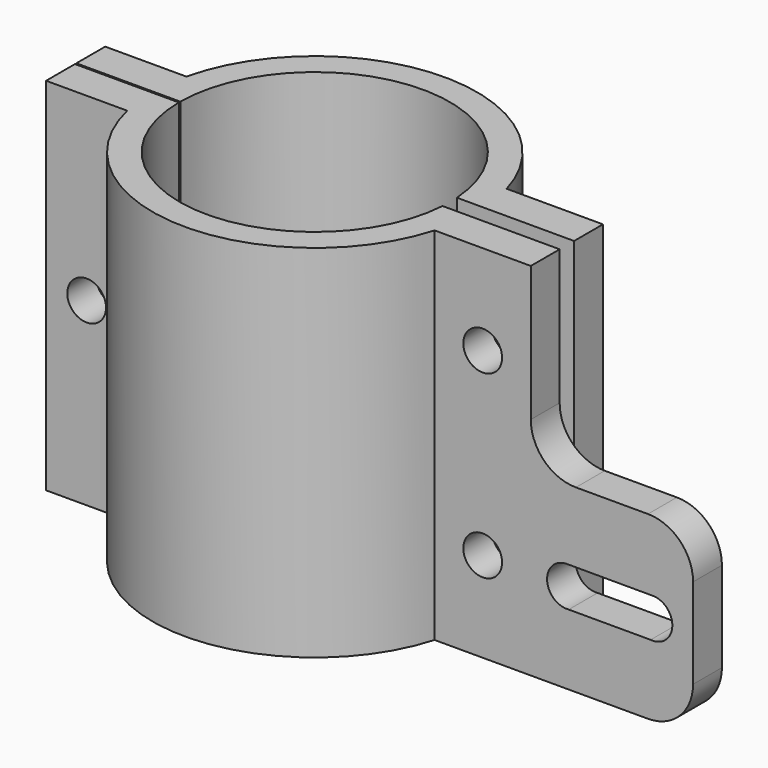
from build123d import *

# Parameters (mm, degrees)
F1_DEPTH  = 20
F2_R      = 2.15
F3_DEPTH  = 25
F4_R      = 2.15
F5_DEPTH  = 2
F6_R      = 2.15
F7_DEPTH  = 25
F8_R      = 2.15
F9_DEPTH  = 2
F10_W     = 4
F10_H     = 20
F11_DEPTH = 18
F12_R     = 5
F14_DEPTH = 25
F17_R     = 5


with BuildPart() as f1:
    # F0 (on Top) → F1 (new body, symmetric)
    with BuildSketch(Plane.XY):
        with BuildLine():
            ThreePointArc((-14.999666663, 0.1), (-0.4503030788, 14.993239381), (14.9666295471, 1))
            Line((14.9666295471, 1), (17.9722007556, 1))
            ThreePointArc((17.9722007556, 1), (17.7449767894, 3.0192381065), (17.2916164658, 5))
            ThreePointArc((17.2916164658, 5), (-0.4651151727, 17.9939897709), (-17.5268365657, 4.1))
            ThreePointArc((-17.5268365657, 4.1), (-17.87551663, 2.1132688448), (-17.9997222201, 0.1))
            Line((-17.9997222201, 0.1), (-14.999666663, 0.1))
        make_face()
        with BuildLine():
            Line((-26.5268365657, 0.1), (-17.9997222201, 0.1))
            ThreePointArc((-17.9997222201, 0.1), (-17.87551663, 2.1132688448), (-17.5268365657, 4.1))
            Line((-17.5268365657, 4.1), (-26.5268365657, 4.1))
            Line((-26.5268365657, 4.1), (-26.5268365657, 0.1))
        make_face()
        with BuildLine():
            ThreePointArc((17.2916164658, 5), (17.7449767894, 3.0192381065), (17.9722007556, 1))
            Line((17.9722007556, 1), (27.9666295471, 1))
            Line((27.9666295471, 1), (27.9666295471, 5))
            Line((27.9666295471, 5), (17.2916164658, 5))
        make_face()
    extrude(amount=F1_DEPTH, both=True)


with BuildPart() as f1b:
    # F0 (on Top) → F1, piece 2 (new body, symmetric)
    with BuildSketch(Plane.XY):
        with BuildLine():
            ThreePointArc((-17.5268365657, -4.1), (-17.87551663, -2.1132688448), (-17.9997222201, -0.1))
            Line((-17.9997222201, -0.1), (-26.5268365657, -0.1))
            Line((-26.5268365657, -0.1), (-26.5268365657, -4.1))
            Line((-26.5268365657, -4.1), (-17.5268365657, -4.1))
        make_face()
        with BuildLine():
            Line((17.9722007556, -1), (14.9666295471, -1))
            ThreePointArc((14.9666295471, -1), (-0.4503030788, -14.993239381), (-14.999666663, -0.1))
            Line((-14.999666663, -0.1), (-17.9997222201, -0.1))
            ThreePointArc((-17.9997222201, -0.1), (-17.87551663, -2.1132688448), (-17.5268365657, -4.1))
            ThreePointArc((-17.5268365657, -4.1), (-0.4651151727, -17.9939897709), (17.2916164658, -5))
            ThreePointArc((17.2916164658, -5), (17.7449767894, -3.0192381065), (17.9722007556, -1))
        make_face()
        with BuildLine():
            Line((27.9666295471, -1), (17.9722007556, -1))
            ThreePointArc((17.9722007556, -1), (17.7449767894, -3.0192381065), (17.2916164658, -5))
            Line((17.2916164658, -5), (27.9666295471, -5))
            Line((27.9666295471, -5), (27.9666295471, -1))
        make_face()
    extrude(amount=F1_DEPTH, both=True)


with BuildPart() as f3_tool:
    # F2 (on face) → F3 (new body)
    with BuildSketch(Plane.XZ.offset(4.1)):
        with Locations((-22.0268365657, 0)):
            Circle(F2_R)
    extrude(amount=-F3_DEPTH)


with BuildPart() as f1_1:
    add(f1.part)

    # F3: cut by f3_tool
    add(f3_tool.part, mode=Mode.SUBTRACT)

    # F4 (on face) → F5 (cut)
    with BuildSketch(Plane(origin=(0, 4.1, 0), x_dir=(-1, 0, 0), z_dir=(0, 1, 0))):
        Polygon((24.1630325617, 3.7), (19.8906405697, 3.7), (17.7544445737, 0), (19.8906405697, -3.7), (24.1630325617, -3.7), (26.2992285577, 0), align=None)
        with Locations((22.0268365657, 0)):
            Circle(F4_R, mode=Mode.SUBTRACT)
    extrude(amount=-F5_DEPTH, mode=Mode.SUBTRACT)


with BuildPart() as f1b_1:
    add(f1b.part)

    # F3: cut by f3_tool
    add(f3_tool.part, mode=Mode.SUBTRACT)


with BuildPart() as f7_tool:
    # F6 (on face) → F7 (new body)
    with BuildSketch(Plane.XZ.offset(5)):
        with Locations((22.6291230064, 10)):
            Circle(F6_R)
        with Locations((22.6291230064, -10)):
            Circle(F6_R)
    extrude(amount=-F7_DEPTH)


with BuildPart() as f1_2:
    add(f1_1.part)

    # F7: cut by f7_tool
    add(f7_tool.part, mode=Mode.SUBTRACT)

    # F8 (on face) → F9 (cut)
    with BuildSketch(Plane(origin=(0, 5, 0), x_dir=(-1, 0, 0), z_dir=(0, 1, 0))):
        Polygon((-20.4929270104, 13.7), (-24.7653190024, 13.7), (-26.9015149984, 10), (-24.7653190024, 6.3), (-20.4929270104, 6.3), (-18.3567310144, 10), align=None)
        with Locations((-22.6291230064, 10)):
            Circle(F8_R, mode=Mode.SUBTRACT)
        Polygon((-20.4858813267, -6.3040767817), (-24.758265564, -6.2959366497), (-26.9015072438, -9.991859868), (-24.7723646862, -13.6959232183), (-20.4999804488, -13.7040633503), (-18.3567387691, -10.008140132), align=None)
        with Locations((-22.6291230064, -10)):
            Circle(F8_R, mode=Mode.SUBTRACT)
    extrude(amount=-F9_DEPTH, mode=Mode.SUBTRACT)


with BuildPart() as f1b_2:
    add(f1b_1.part)

    # F7: cut by f7_tool
    add(f7_tool.part, mode=Mode.SUBTRACT)

    # F10 (on face) → F11 (join)
    with BuildSketch(Plane.YZ.offset(27.9666295471)):
        with Locations((-3, 10)):
            Rectangle(F10_W, F10_H)
    extrude(amount=F11_DEPTH)

    # F12
    f12_edges = [f1b_2.edges().sort_by_distance(p)[0] for p in [
        (45.96663, -3, 20),
        (45.96663, -3, 0),
    ]]
    fillet(f12_edges, radius=F12_R)

    # F13 (on face) → F14 (cut)
    with BuildSketch(Plane.XZ.offset(5)):
        with BuildLine():
            ThreePointArc((31.9693457589, 7.8000016768), (33.5232244954, 8.4453257039), (34.1666295471, 10))
            ThreePointArc((34.1666295471, 10), (33.5934159099, 11.4810692522), (32.1724785199, 12.1903484199))
            ThreePointArc((32.1724785199, 12.1903484199), (29.7689805783, 10.1016809216), (31.9693457589, 7.8000016768))
        make_face()
        with BuildLine():
            ThreePointArc((43.6666295471, 10), (42.9476987993, 11.6267863628), (41.2607805742, 12.1903484199))
            ThreePointArc((41.2607805742, 12.1903484199), (39.2666488008, 10.0092041272), (41.2424604448, 7.81145066))
            Line((41.2424604448, 7.81145066), (41.6962021106, 7.8120108688))
            ThreePointArc((41.6962021106, 7.8120108688), (43.1014169399, 8.5277669409), (43.6666295471, 10))
        make_face()
        with BuildLine():
            ThreePointArc((32.1724785199, 12.1903484199), (33.5934159099, 11.4810692522), (34.1666295471, 10))
            ThreePointArc((34.1666295471, 10), (33.5232244954, 8.4453257039), (31.9693457589, 7.8000016768))
            Line((31.9693457589, 7.8000016768), (41.2424604448, 7.81145066))
            ThreePointArc((41.2424604448, 7.81145066), (39.2666488008, 10.0092041272), (41.2607805742, 12.1903484199))
            Line((41.2607805742, 12.1903484199), (32.1724785199, 12.1903484199))
        make_face()
    extrude(amount=-F14_DEPTH, mode=Mode.SUBTRACT)


with BuildPart() as f15_1:
    # F15: instance of F1b
    add(f1b_2.part.mirror(Plane.XY))

    # F17
    f17_edges = [f15_1.edges().sort_by_distance(p)[0] for p in [
        (27.96663, -3, 0),
    ]]
    fillet(f17_edges, radius=F17_R)


solid = Compound([f1_2.part, f15_1.part])
